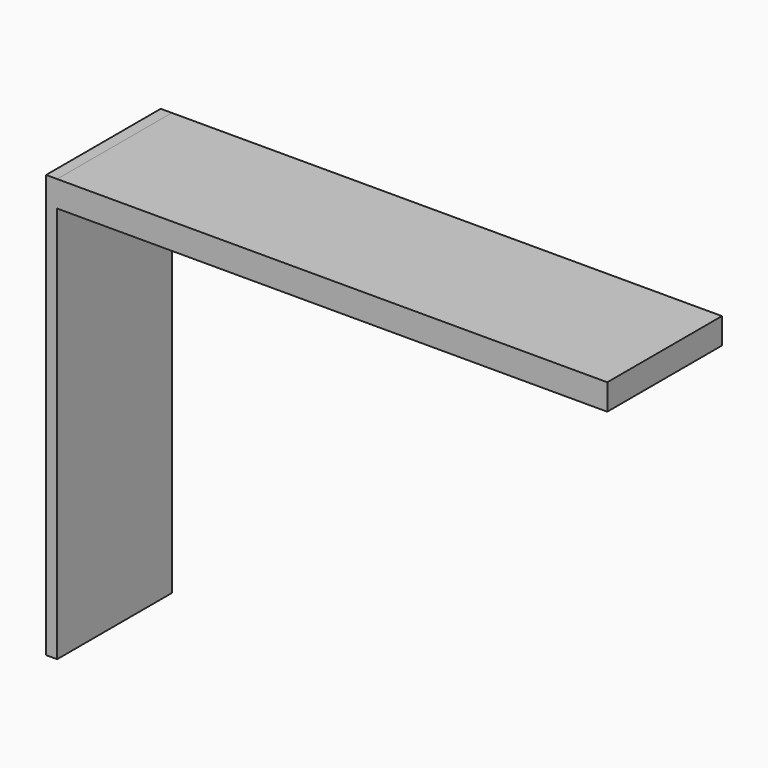
from build123d import *

# Parameters (mm, degrees)
F0_W     = 73.131912
F0_H     = 3.448933
F1_DEPTH = 19.05


with BuildPart() as f1:
    # F0 (on Front) → F1 (new body)
    with BuildSketch(Plane.XZ):
        with Locations((-0.653278, -1.724466)):
            Rectangle(F0_W, F0_H)
        Polygon((-37.219234, 0), (-38.690276, 0), (-38.690276, -56.196377), (-37.219234, -56.196377), (-37.219234, -3.448933), align=None)
        with Locations((-0.653278, -1.724466)):
            Rectangle(F0_W, F0_H)
    extrude(amount=F1_DEPTH)


solid = f1.part
